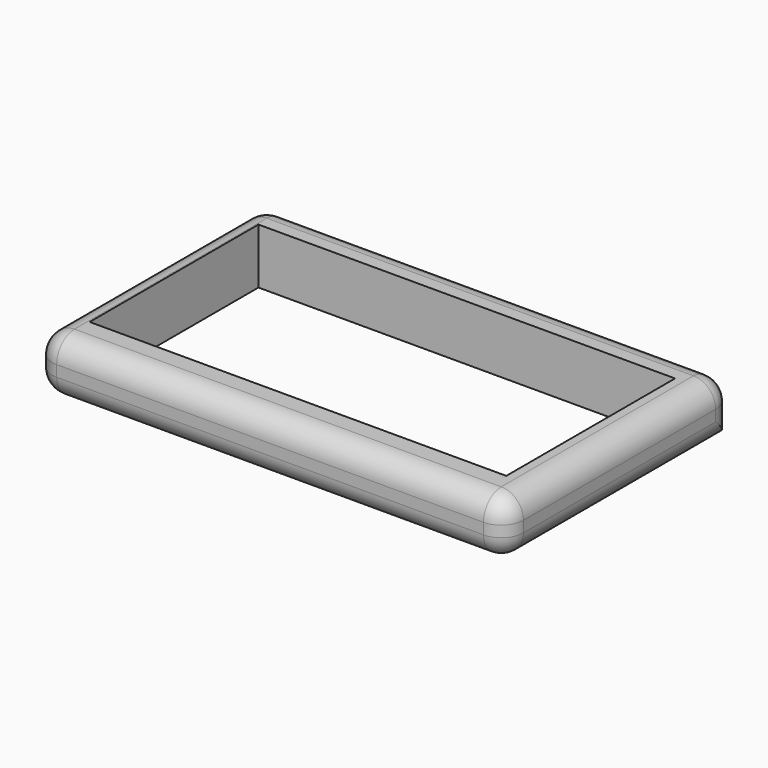
from build123d import *

# Parameters (mm, degrees)
F0_W     = 107.890859
F0_H     = 65.191729
F0_W_2   = 95.397707
F0_H_2   = 48.309091
F1_DEPTH = 12.7
F2_R     = 5.08


with BuildPart() as f1:
    # F0 (on Top) → F1 (new body)
    with BuildSketch(Plane.XY):
        with Locations((2.510254, 1.932783)):
            Rectangle(F0_W, F0_H)
        with Locations((1.728927, 2.448655)):
            Rectangle(F0_W_2, F0_H_2, mode=Mode.SUBTRACT)
    extrude(amount=F1_DEPTH)

    # F2
    f2_edges = [f1.edges().sort_by_distance(p)[0] for p in [
        (2.510253, -30.663082, 12.7),
        (-51.435176, 1.932782, 12.7),
        (2.510253, 34.528647, 12.7),
        (56.455683, 1.932782, 12.7),
        (56.455683, -30.663082, 6.35),
        (2.510253, -30.663082, 0),
        (56.455683, 1.932782, 0),
        (-51.435176, 34.528647, 6.35),
        (-51.435176, -30.663082, 6.35),
        (-51.435176, 1.932782, 0),
        (56.455683, 34.528647, 6.35),
    ]]
    fillet(f2_edges, radius=F2_R)


solid = f1.part
